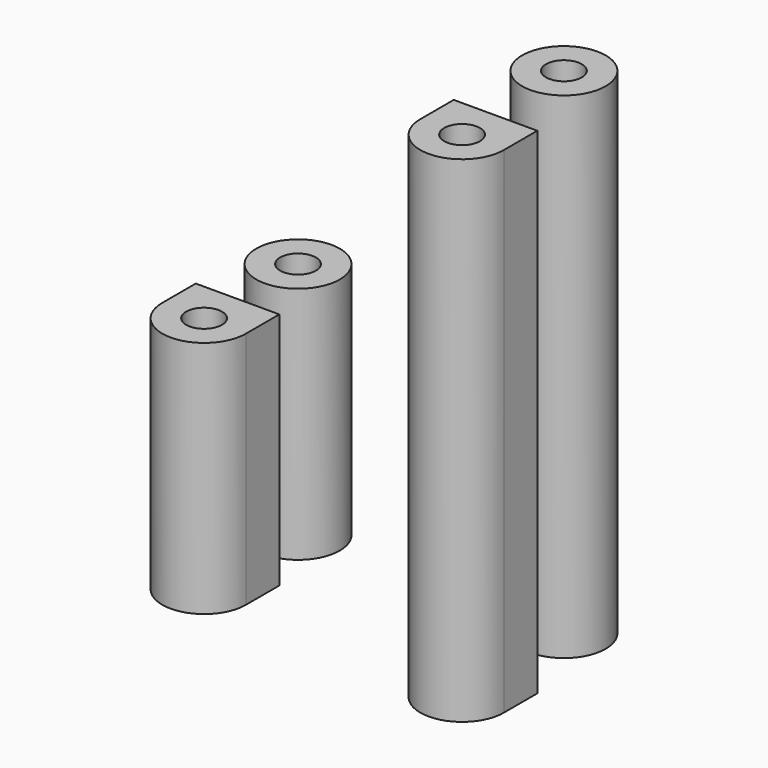
from build123d import *

# Parameters (mm, degrees)
F0_R     = 3.5
F0_R_2   = 1.5
F1_DEPTH = 20
F2_R     = 3.5
F2_R_2   = 1.5
F3_DEPTH = 41.5


with BuildPart() as f1:
    # F0 (on Top) → F1 (new body)
    with BuildSketch(Plane.XY):
        with Locations((-13.289317, 0)):
            Circle(F0_R)
        with Locations((-13.289317, 0)):
            Circle(F0_R_2, mode=Mode.SUBTRACT)
        with BuildLine():
            Line((-9.789317, -6.335843), (-16.789317, -6.335843))
            Line((-16.789317, -6.335843), (-16.789317, -9.835843))
            ThreePointArc((-16.789317, -9.835843), (-13.289317, -13.335843), (-9.789317, -9.835843))
            Line((-9.789317, -9.835843), (-9.789317, -6.335843))
        make_face()
        with Locations((-13.289317, -9.835843)):
            Circle(F0_R_2, mode=Mode.SUBTRACT)
    extrude(amount=F1_DEPTH)


with BuildPart() as f3:
    # F2 (on Top) → F3 (new body)
    with BuildSketch(Plane.XY):
        with Locations((8.989015, 0)):
            Circle(F2_R)
        with Locations((8.989015, 0)):
            Circle(F2_R_2, mode=Mode.SUBTRACT)
        with BuildLine():
            Line((12.935055, -7.722865), (5.935055, -7.722865))
            Line((5.935055, -7.722865), (5.935055, -11.222865))
            ThreePointArc((5.935055, -11.222865), (9.435055, -14.722865), (12.935055, -11.222865))
            Line((12.935055, -11.222865), (12.935055, -7.722865))
        make_face()
        with Locations((9.435055, -11.222865)):
            Circle(F2_R_2, mode=Mode.SUBTRACT)
    extrude(amount=F3_DEPTH)


solid = Compound([f1.part, f3.part])
